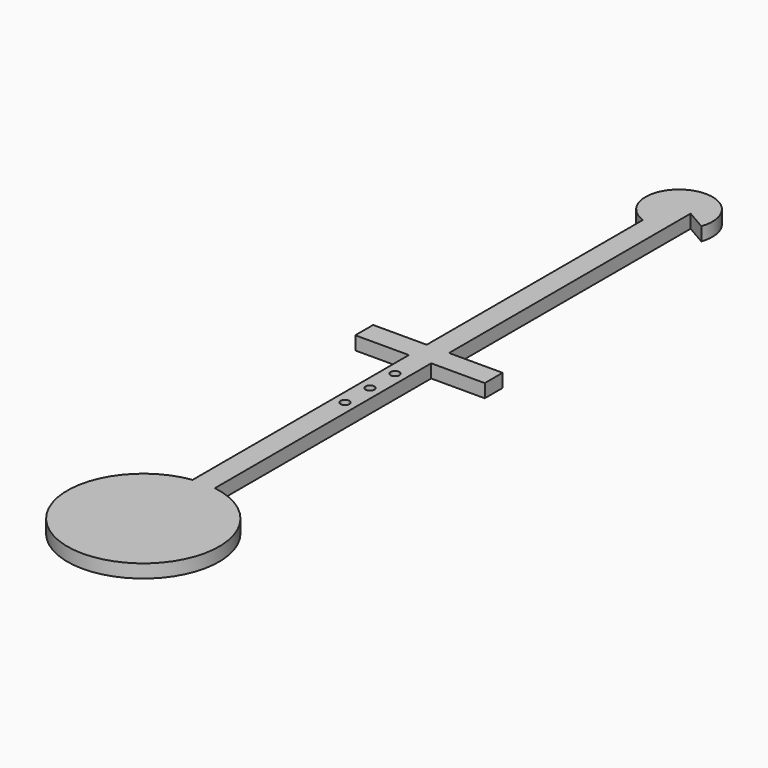
from build123d import *

# Parameters (mm, degrees)
F0_R     = 1
F1_DEPTH = 3


with BuildPart() as f1:
    # F0 (on Top) → F1 (new body)
    with BuildSketch(Plane.XY):
        with BuildLine():
            Line((-3.609526, 23.8211), (-3.609526, -36.712977))
            ThreePointArc((-3.609526, -36.712977), (-1.295909, -70.541409), (1.390474, -36.740537))
            Line((1.390474, -36.740537), (1.390474, 23.8211))
            Line((1.390474, 23.8211), (13.390474, 23.8211))
            Line((13.390474, 23.8211), (13.390474, 28.8211))
            Line((13.390474, 28.8211), (1.390474, 28.8211))
            Line((1.390474, 28.8211), (1.390474, 89.420719))
            Line((1.390474, 89.420719), (1.390474, 96.458332))
            Line((1.390474, 96.458332), (5.837989, 93.872674))
            ThreePointArc((5.837989, 93.872674), (-4.437612, 103.224584), (-3.609526, 89.355177))
            Line((-3.609526, 89.355177), (-3.609526, 28.8211))
            Line((-3.609526, 28.8211), (-15.609526, 28.8211))
            Line((-15.609526, 28.8211), (-15.609526, 23.8211))
            Line((-15.609526, 23.8211), (-3.609526, 23.8211))
        make_face()
        with Locations((-1.109526, 2.8211)):
            Circle(F0_R, mode=Mode.SUBTRACT)
        with Locations((-1.109526, 9.8211)):
            Circle(F0_R, mode=Mode.SUBTRACT)
        with Locations((-1.109526, 16.8211)):
            Circle(F0_R, mode=Mode.SUBTRACT)
    extrude(amount=F1_DEPTH)


solid = f1.part
